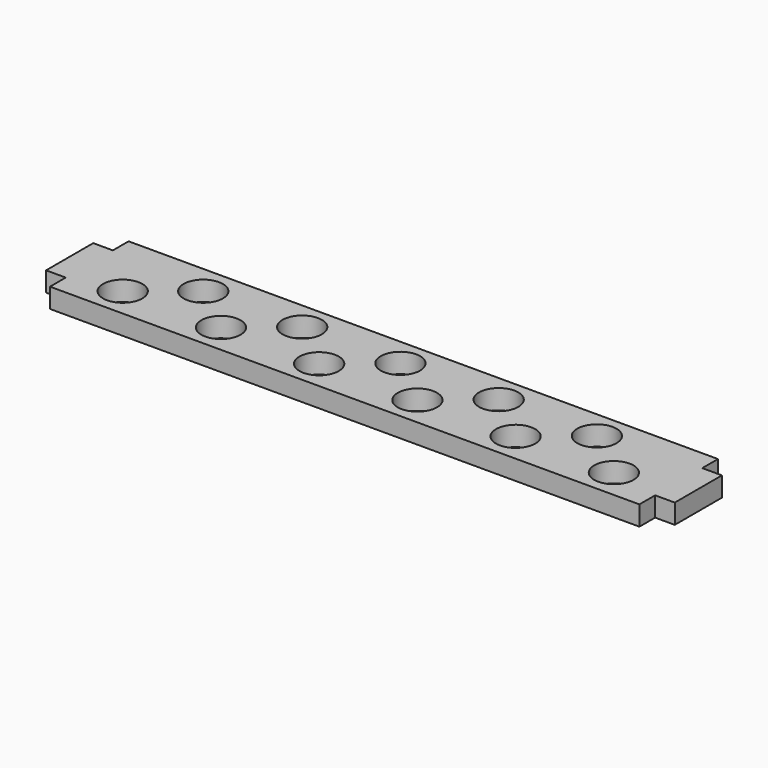
from build123d import *

# Parameters (mm, degrees)
F0_R     = 10
F0_W     = 10
F0_H     = 30
F1_DEPTH = 10


with BuildPart() as f1:
    # F0 (on Top) → F1 (new body)
    with BuildSketch(Plane.XY):
        Polygon((-245.196861, 22.822646), (54.803139, 22.822646), (54.803139, 32.822646), (54.803139, 62.822646), (54.803139, 72.822646), (-245.196861, 72.822646), (-245.196861, 62.822646), (-245.196861, 32.822646), align=None)
        with Locations((-220.196861, 37.822646)):
            Circle(F0_R, mode=Mode.SUBTRACT)
        with Locations((-170.196861, 37.822646)):
            Circle(F0_R, mode=Mode.SUBTRACT)
        with Locations((-120.196861, 37.822646)):
            Circle(F0_R, mode=Mode.SUBTRACT)
        with Locations((-70.196861, 37.822646)):
            Circle(F0_R, mode=Mode.SUBTRACT)
        with Locations((-20.196861, 37.822646)):
            Circle(F0_R, mode=Mode.SUBTRACT)
        with Locations((29.803139, 37.822646)):
            Circle(F0_R, mode=Mode.SUBTRACT)
        with Locations((-195.196861, 57.822646)):
            Circle(F0_R, mode=Mode.SUBTRACT)
        with Locations((-145.196861, 58.276102)):
            Circle(F0_R, mode=Mode.SUBTRACT)
        with Locations((-95.196861, 58.276102)):
            Circle(F0_R, mode=Mode.SUBTRACT)
        with Locations((-45.196861, 58.276102)):
            Circle(F0_R, mode=Mode.SUBTRACT)
        with Locations((4.803139, 58.276102)):
            Circle(F0_R, mode=Mode.SUBTRACT)
        with Locations((-250.196861, 47.822646)):
            Rectangle(F0_W, F0_H)
        with Locations((59.803139, 47.822646)):
            Rectangle(F0_W, F0_H)
    extrude(amount=F1_DEPTH)


solid = f1.part
